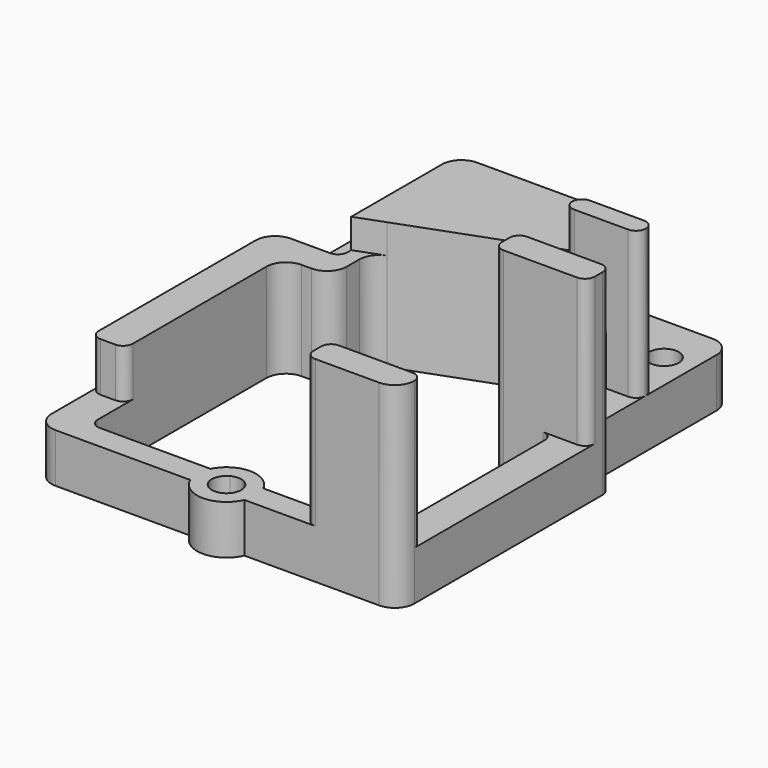
from build123d import *

# Parameters (mm, degrees)
F1_DEPTH = 2
F0_R     = 3
F0_R_2   = 1.5
F2_DEPTH = 5
F4_DEPTH = 5
F5_DEPTH = 8
F6_DEPTH = 4
F7_DEPTH = 15
F8_DEPTH = 15
F3_W     = 1
F3_H     = 6
F9_DEPTH = 5


with BuildPart() as f1:
    # F0 (on Top) → F1 (new body)
    with BuildSketch(Plane.XY):
        with BuildLine():
            Line((-14, -20), (-2.69212803, -20))
            ThreePointArc((-2.69212803, -20), (0, -18.323800087), (2.69212803, -20))
            Line((2.69212803, -20), (14, -20))
            ThreePointArc((14, -20), (14.7071067812, -19.7071067812), (15, -19))
            Line((15, -19), (15, -15.5))
            ThreePointArc((15, -15.5), (14.4142135624, -16.9142135624), (13, -17.5))
            Line((13, -17.5), (-13, -17.5))
            ThreePointArc((-13, -17.5), (-14.4142135624, -16.9142135624), (-15, -15.5))
            Line((-15, -15.5), (-15, -19))
            ThreePointArc((-15, -19), (-14.7071067812, -19.7071067812), (-14, -20))
        make_face()
    extrude(amount=F1_DEPTH)

    # F0 (on Top) → F2 (join)
    with BuildSketch(Plane.XY):
        with BuildLine():
            Line((2.7598104581, -22.5), (16.5, -22.5))
            ThreePointArc((16.5, -22.5), (17.9142135624, -21.9142135624), (18.5, -20.5))
            Line((18.5, -20.5), (18.5, 3.5))
            ThreePointArc((18.5, 3.5), (18.2071067812, 4.2071067812), (17.5, 4.5))
            ThreePointArc((17.5, 4.5), (16.7928932188, 4.7928932188), (16.5, 5.5))
            Line((16.5, 5.5), (16.5, 17.5694916397))
            Line((16.5, 17.5694916397), (16.5, 20.5))
            ThreePointArc((16.5, 20.5), (15.9142135624, 21.9142135624), (14.5, 22.5))
            Line((14.5, 22.5), (-16.5, 22.5))
            ThreePointArc((-16.5, 22.5), (-17.9142135624, 21.9142135624), (-18.5, 20.5))
            Line((-18.5, 20.5), (-18.5, 17.5694916397))
            Line((-18.5, 17.5694916397), (-18.5, -20.5))
            ThreePointArc((-18.5, -20.5), (-17.9142135624, -21.9142135624), (-16.5, -22.5))
            Line((-16.5, -22.5), (-2.7598104581, -22.5))
            ThreePointArc((-2.7598104581, -22.5), (-2.9989011853, -21.2426109214), (-2.69212803, -20))
            Line((-2.69212803, -20), (-14, -20))
            ThreePointArc((-14, -20), (-14.7071067812, -19.7071067812), (-15, -19))
            Line((-15, -19), (-15, -15.5))
            Line((-15, -15.5), (-15, 2.5))
            ThreePointArc((-15, 2.5), (-14.4142135624, 3.9142135624), (-13, 4.5))
            Line((-13, 4.5), (-12, 4.5))
            ThreePointArc((-12, 4.5), (-10.5857864376, 5.0857864376), (-10, 6.5))
            Line((-10, 6.5), (-10, 8.1054256072))
            ThreePointArc((-10, 8.1054256072), (-9.6405519552, 9.2493614806), (-8.6914107177, 9.9821118409))
            Line((-8.6914107177, 9.9821118409), (6.3085892823, 15.5084276303))
            ThreePointArc((6.3085892823, 15.5084276303), (8.1439358734, 15.2722933519), (9, 13.6317413967))
            Line((9, 13.6317413967), (9, 2.5))
            ThreePointArc((9, 2.5), (9.2928932188, 1.7928932188), (10, 1.5))
            Line((10, 1.5), (14, 1.5))
            ThreePointArc((14, 1.5), (14.7071067812, 1.2071067812), (15, 0.5))
            Line((15, 0.5), (15, -15.5))
            Line((15, -15.5), (15, -19))
            ThreePointArc((15, -19), (14.7071067812, -19.7071067812), (14, -20))
            Line((14, -20), (2.69212803, -20))
            ThreePointArc((2.69212803, -20), (2.9220184881, -20.6442355536), (3, -21.323800087))
            ThreePointArc((3, -21.323800087), (2.9393393283, -21.9240369676), (2.7598104581, -22.5))
        make_face()
        with BuildLine():
            ThreePointArc((-12.5, 17.5694916397), (-15.5, 14.5694916397), (-18.5, 17.5694916397))
            ThreePointArc((-18.5, 17.5694916397), (-15.5, 20.5694916397), (-12.5, 17.5694916397))
        make_face(mode=Mode.SUBTRACT)
        with Locations((13.5, 17.5694916397)):
            Circle(F0_R, mode=Mode.SUBTRACT)
        with BuildLine():
            ThreePointArc((2.69212803, -20), (0, -18.323800087), (-2.69212803, -20))
            Line((-2.69212803, -20), (-0.7053746024, -20))
            ThreePointArc((-0.7053746024, -20), (0, -19.823800087), (0.7053746024, -20))
            Line((0.7053746024, -20), (2.69212803, -20))
        make_face()
        with BuildLine():
            ThreePointArc((-2.69212803, -20), (-2.9989011853, -21.2426109214), (-2.7598104581, -22.5))
            Line((-2.7598104581, -22.5), (-0.9308886961, -22.5))
            ThreePointArc((-0.9308886961, -22.5), (-1.4939342005, -21.1890388), (-0.7053746024, -20))
            Line((-0.7053746024, -20), (-2.69212803, -20))
        make_face()
        with BuildLine():
            Line((0.9308886961, -22.5), (2.7598104581, -22.5))
            ThreePointArc((2.7598104581, -22.5), (2.9393393283, -21.9240369676), (3, -21.323800087))
            ThreePointArc((3, -21.323800087), (2.9220184881, -20.6442355536), (2.69212803, -20))
            Line((2.69212803, -20), (0.7053746024, -20))
            ThreePointArc((0.7053746024, -20), (1.2860913466, -20.5518097708), (1.5, -21.323800087))
            ThreePointArc((1.5, -21.323800087), (1.3502468375, -21.9771250275), (0.9308886961, -22.5))
        make_face()
        with BuildLine():
            ThreePointArc((-2.7598104581, -22.5), (0, -24.323800087), (2.7598104581, -22.5))
            Line((2.7598104581, -22.5), (0.9308886961, -22.5))
            ThreePointArc((0.9308886961, -22.5), (0, -22.823800087), (-0.9308886961, -22.5))
            Line((-0.9308886961, -22.5), (-2.7598104581, -22.5))
        make_face()
        with BuildLine():
            ThreePointArc((-12.5, 17.5694916397), (-15.5, 20.5694916397), (-18.5, 17.5694916397))
            ThreePointArc((-18.5, 17.5694916397), (-15.5, 14.5694916397), (-12.5, 17.5694916397))
        make_face()
        with Locations((-15.5, 17.5694916397)):
            Circle(F0_R_2, mode=Mode.SUBTRACT)
        with Locations((13.5, 17.5694916397)):
            Circle(F0_R)
        with Locations((13.5, 17.5694916397)):
            Circle(F0_R_2, mode=Mode.SUBTRACT)
    extrude(amount=F2_DEPTH)

    # F3 (on face) → F4 (join)
    with BuildSketch(Plane.XY.offset(5)):
        with BuildLine():
            ThreePointArc((-18.5, -14.5), (-18.2071067812, -15.2071067812), (-17.5, -15.5))
            Line((-17.5, -15.5), (-16, -15.5))
            ThreePointArc((-16, -15.5), (-15.2928932188, -15.2071067812), (-15, -14.5))
            Line((-15, -14.5), (-15, 2.5))
            ThreePointArc((-15, 2.5), (-14.4142135624, 3.9142135624), (-13, 4.5))
            Line((-13, 4.5), (-12, 4.5))
            ThreePointArc((-12, 4.5), (-10.5857864376, 5.0857864376), (-10, 6.5))
            Line((-10, 6.5), (-10, 8.1054256072))
            ThreePointArc((-10, 8.1054256072), (-9.6405519552, 9.2493614806), (-8.6914107177, 9.9821118409))
            Line((-8.6914107177, 9.9821118409), (-11.5, 8.9473684211))
            Line((-11.5, 8.9473684211), (-11.5, 8.5))
            ThreePointArc((-11.5, 8.5), (-11.7928932188, 7.7928932188), (-12.5, 7.5))
            Line((-12.5, 7.5), (-16.5, 7.5))
            ThreePointArc((-16.5, 7.5), (-17.9142135624, 6.9142135624), (-18.5, 5.5))
            Line((-18.5, 5.5), (-18.5, -14.5))
        make_face()
    extrude(amount=F4_DEPTH)

    # F3 (on face) → F5 (join)
    with BuildSketch(Plane.XY.offset(5)):
        with BuildLine():
            Line((4.5, 22.5), (-9.5, 22.5))
            ThreePointArc((-9.5, 22.5), (-10.9142135624, 21.9142135624), (-11.5, 20.5))
            Line((-11.5, 20.5), (-11.5, 8.9473684211))
            Line((-11.5, 8.9473684211), (-8.6914107177, 9.9821118409))
            Line((-8.6914107177, 9.9821118409), (6.3085892823, 15.5084276303))
            Line((6.3085892823, 15.5084276303), (6.5, 15.5789473684))
            Line((6.5, 15.5789473684), (6.5, 20.5))
            ThreePointArc((6.5, 20.5), (5.9142135624, 21.9142135624), (4.5, 22.5))
        make_face()
    extrude(amount=F5_DEPTH)

    # F3 (on face) → F6 (join)
    with BuildSketch(Plane.XY.offset(5)):
        with BuildLine():
            ThreePointArc((10, -19.5), (9.5, -19.6339745962), (9.1339745962, -20))
            Line((9.1339745962, -20), (14, -20))
            ThreePointArc((14, -20), (14.5, -19.8660254038), (14.8660254038, -19.5))
            Line((14.8660254038, -19.5), (10, -19.5))
        make_face()
        with BuildLine():
            ThreePointArc((9, -21.5), (9.2928932188, -22.2071067812), (10, -22.5))
            Line((10, -22.5), (16.5, -22.5))
            ThreePointArc((16.5, -22.5), (17.9142135624, -21.9142135624), (18.5, -20.5))
            ThreePointArc((18.5, -20.5), (18.2071067812, -19.7928932188), (17.5, -19.5))
            Line((17.5, -19.5), (14.8660254038, -19.5))
            ThreePointArc((14.8660254038, -19.5), (14.5, -19.8660254038), (14, -20))
            Line((14, -20), (9.1339745962, -20))
            ThreePointArc((9.1339745962, -20), (9.0340741737, -20.2411809549), (9, -20.5))
            Line((9, -20.5), (9, -21.5))
        make_face()
    extrude(amount=-F6_DEPTH)

    # F3 (on face) → F7 (join)
    with BuildSketch(Plane.XY.offset(5)):
        with BuildLine():
            ThreePointArc((10, -19.5), (9.5, -19.6339745962), (9.1339745962, -20))
            Line((9.1339745962, -20), (14, -20))
            ThreePointArc((14, -20), (14.5, -19.8660254038), (14.8660254038, -19.5))
            Line((14.8660254038, -19.5), (10, -19.5))
        make_face()
        with BuildLine():
            ThreePointArc((9, -21.5), (9.2928932188, -22.2071067812), (10, -22.5))
            Line((10, -22.5), (16.5, -22.5))
            ThreePointArc((16.5, -22.5), (17.9142135624, -21.9142135624), (18.5, -20.5))
            ThreePointArc((18.5, -20.5), (18.2071067812, -19.7928932188), (17.5, -19.5))
            Line((17.5, -19.5), (14.8660254038, -19.5))
            ThreePointArc((14.8660254038, -19.5), (14.5, -19.8660254038), (14, -20))
            Line((14, -20), (9.1339745962, -20))
            ThreePointArc((9.1339745962, -20), (9.0340741737, -20.2411809549), (9, -20.5))
            Line((9, -20.5), (9, -21.5))
        make_face()
    extrude(amount=F7_DEPTH)

    # F3 (on face) → F8 (join)
    with BuildSketch(Plane.XY.offset(5)):
        with BuildLine():
            ThreePointArc((17.5, 1.5), (18.2071067812, 1.7928932188), (18.5, 2.5))
            Line((18.5, 2.5), (18.5, 3.5))
            ThreePointArc((18.5, 3.5), (18.2071067812, 4.2071067812), (17.5, 4.5))
            Line((17.5, 4.5), (13.25, 4.5))
            Line((13.25, 4.5), (12.25, 4.5))
            Line((12.25, 4.5), (10, 4.5))
            ThreePointArc((10, 4.5), (9.2928932188, 4.2071067812), (9, 3.5))
            Line((9, 3.5), (9, 2.5))
            ThreePointArc((9, 2.5), (9.2928932188, 1.7928932188), (10, 1.5))
            Line((10, 1.5), (12.25, 1.5))
            Line((12.25, 1.5), (13.25, 1.5))
            Line((13.25, 1.5), (14, 1.5))
            Line((14, 1.5), (17.5, 1.5))
        make_face()
        with BuildLine():
            ThreePointArc((15.5, 10.5), (16.2071067812, 10.7928932188), (16.5, 11.5))
            ThreePointArc((16.5, 11.5), (16.2071067812, 12.2071067812), (15.5, 12.5))
            Line((15.5, 12.5), (10, 12.5))
            ThreePointArc((10, 12.5), (9.2928932188, 12.2071067812), (9, 11.5))
            ThreePointArc((9, 11.5), (9.2928932188, 10.7928932188), (10, 10.5))
            Line((10, 10.5), (12.25, 10.5))
            Line((12.25, 10.5), (13.25, 10.5))
            Line((13.25, 10.5), (15.5, 10.5))
        make_face()
    extrude(amount=F8_DEPTH)

    # F3 (on face) → F9 (join)
    with BuildSketch(Plane.XY.offset(5)):
        with Locations((12.75, 7.5)):
            Rectangle(F3_W, F3_H)
    extrude(amount=F9_DEPTH)


solid = f1.part
